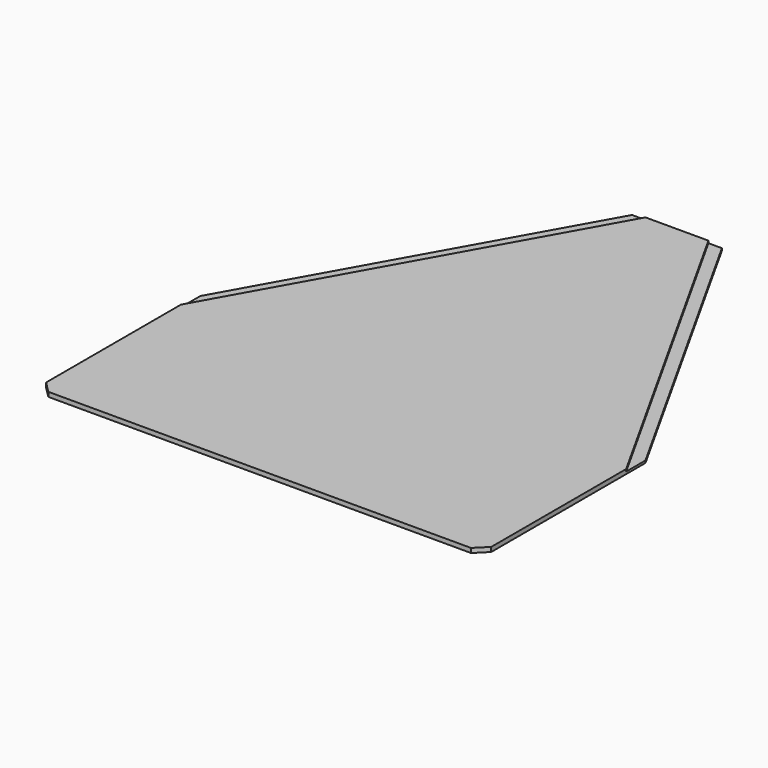
from build123d import *

# Parameters (mm, degrees)
F1_DEPTH = 1
F3_DEPTH = 1


with BuildPart() as f1:
    # F0 (on Top) → F1 (new body)
    with BuildSketch(Plane.XY):
        Polygon((-14, 92.921557), (-20, 92.921557), (-99, -48.349032), (-99, -59.078443), align=None)
        Polygon((0, 92.921557), (-14, 92.921557), (-99, -59.078443), (0, -59.078443), align=None)
        Polygon((14, 92.921557), (0, 92.921557), (0, -59.078443), (99, -59.078443), align=None)
        Polygon((20, 92.921557), (14, 92.921557), (99, -59.078443), (99, -48.349032), align=None)
        Polygon((99, -59.078443), (0, -59.078443), (0, -139.078443), (94, -139.078443), (99, -134.078443), align=None)
        Polygon((0, -59.078443), (-99, -59.078443), (-99, -134.078443), (-94, -139.078443), (0, -139.078443), align=None)
    extrude(amount=F1_DEPTH)

    # F2 (on face) → F3 (join)
    with BuildSketch(Plane.XY.offset(1)):
        Polygon((14, 92.921557), (-14, 92.921557), (-99, -59.078443), (-99, -134.078443), (-94, -139.078443), (94, -139.078443), (99, -134.078443), (99, -59.078443), align=None)
    extrude(amount=F3_DEPTH)


solid = f1.part
